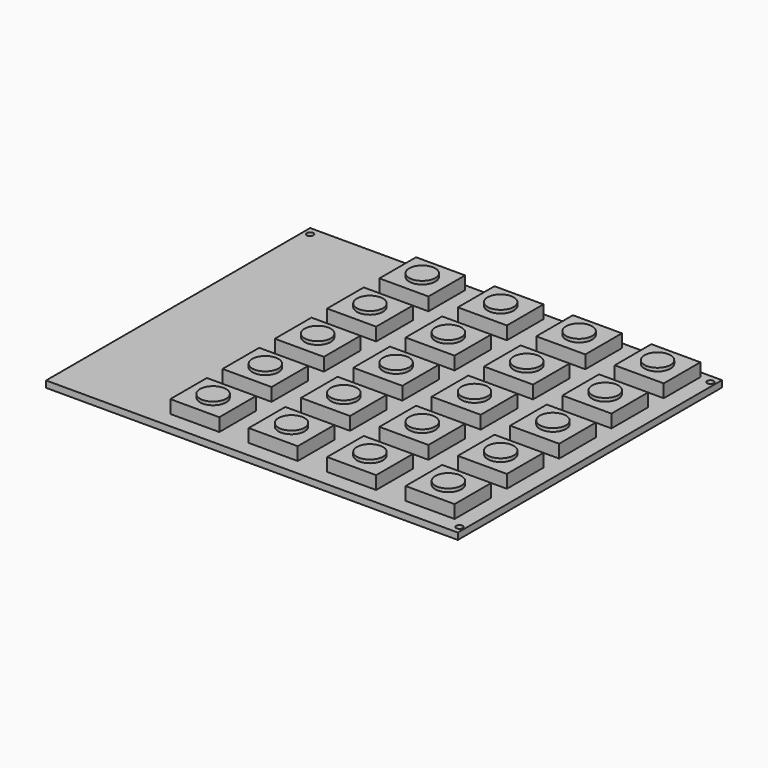
from build123d import *

# Parameters (mm, degrees)
F0_W     = 100.0125
F0_H     = 80.16875
F1_DEPTH = 1.5875
F2_W     = 11.90625
F2_H     = 11.1125
F3_DEPTH = 3.175
F4_R     = 3.175
F5_DEPTH = 0.79375
F6_R     = 0.79375
F7_DEPTH = 25.4


with BuildPart() as f1:
    # F0 (on Top) → F1 (new body)
    with BuildSketch(Plane.XY):
        Rectangle(F0_W, F0_H)
    extrude(amount=F1_DEPTH)

    # F2 (on face) → F3 (join)
    with BuildSketch(Plane.XY.offset(1.5875)):
        with Locations((-17.065625, 32.940625)):
            Rectangle(F2_W, F2_H)
        with Locations((1.984375, 32.940625)):
            Rectangle(F2_W, F2_H)
        with Locations((21.034375, 32.940625)):
            Rectangle(F2_W, F2_H)
        Polygon((46.0375, 38.496875), (40.075645, 38.496875), (34.13125, 38.496875), (34.13125, 27.384375), (46.0375, 27.384375), align=None)
        with Locations((40.084375, 17.065625)):
            Rectangle(F2_W, F2_H)
        with Locations((40.084375, 1.190625)):
            Rectangle(F2_W, F2_H)
        with Locations((40.084375, -14.684375)):
            Rectangle(F2_W, F2_H)
        with Locations((40.084375, -30.559375)):
            Rectangle(F2_W, F2_H)
        with Locations((21.034375, -30.559375)):
            Rectangle(F2_W, F2_H)
        with Locations((1.984375, -30.559375)):
            Rectangle(F2_W, F2_H)
        Polygon((-23.01875, -25.003125), (-23.01875, -30.146314), (-23.01875, -36.115625), (-11.1125, -36.115625), (-11.1125, -25.003125), align=None)
        with Locations((-17.065625, -14.684375)):
            Rectangle(F2_W, F2_H)
        with Locations((-17.065625, 1.190625)):
            Rectangle(F2_W, F2_H)
        with Locations((-17.065625, 17.065625)):
            Rectangle(F2_W, F2_H)
        with Locations((1.984375, 17.065625)):
            Rectangle(F2_W, F2_H)
        with Locations((21.034375, 17.065625)):
            Rectangle(F2_W, F2_H)
        with Locations((21.034375, 1.190625)):
            Rectangle(F2_W, F2_H)
        with Locations((1.984375, 1.190625)):
            Rectangle(F2_W, F2_H)
        with Locations((1.984375, -14.684375)):
            Rectangle(F2_W, F2_H)
        with Locations((21.034375, -14.684375)):
            Rectangle(F2_W, F2_H)
    extrude(amount=F3_DEPTH)

    # F4 (on face) → F5 (join)
    with BuildSketch(Plane.XY.offset(4.7625)):
        with Locations((40.084375, -30.559375)):
            Circle(F4_R)
        with Locations((40.084375, -14.684375)):
            Circle(F4_R)
        with Locations((40.084375, 1.190625)):
            Circle(F4_R)
        with Locations((40.084375, 17.065625)):
            Circle(F4_R)
        with Locations((40.084375, 32.940625)):
            Circle(F4_R)
        with Locations((21.034375, 32.940625)):
            Circle(F4_R)
        with Locations((21.034375, 17.065625)):
            Circle(F4_R)
        with Locations((21.034375, 1.190625)):
            Circle(F4_R)
        with Locations((21.034375, -14.684375)):
            Circle(F4_R)
        with Locations((21.034375, -30.559375)):
            Circle(F4_R)
        with Locations((1.984375, -30.559375)):
            Circle(F4_R)
        with Locations((1.984375, -14.684375)):
            Circle(F4_R)
        with Locations((1.984375, 1.190625)):
            Circle(F4_R)
        with Locations((1.984375, 17.065625)):
            Circle(F4_R)
        with Locations((1.984375, 32.940625)):
            Circle(F4_R)
        with Locations((-17.065625, 32.940625)):
            Circle(F4_R)
        with Locations((-17.065625, 17.065625)):
            Circle(F4_R)
        with Locations((-17.065625, 1.190625)):
            Circle(F4_R)
        with Locations((-17.065625, -14.684375)):
            Circle(F4_R)
        with Locations((-17.065625, -30.559375)):
            Circle(F4_R)
    extrude(amount=F5_DEPTH)

    # F6 (on face) → F7 (cut)
    with BuildSketch(Plane.XY.offset(1.5875)):
        with Locations((-48.41875, 38.1)):
            Circle(F6_R)
        with Locations((48.815625, 38.1)):
            Circle(F6_R)
        with Locations((48.815625, -38.1)):
            Circle(F6_R)
    extrude(amount=-F7_DEPTH, mode=Mode.SUBTRACT)


solid = f1.part
